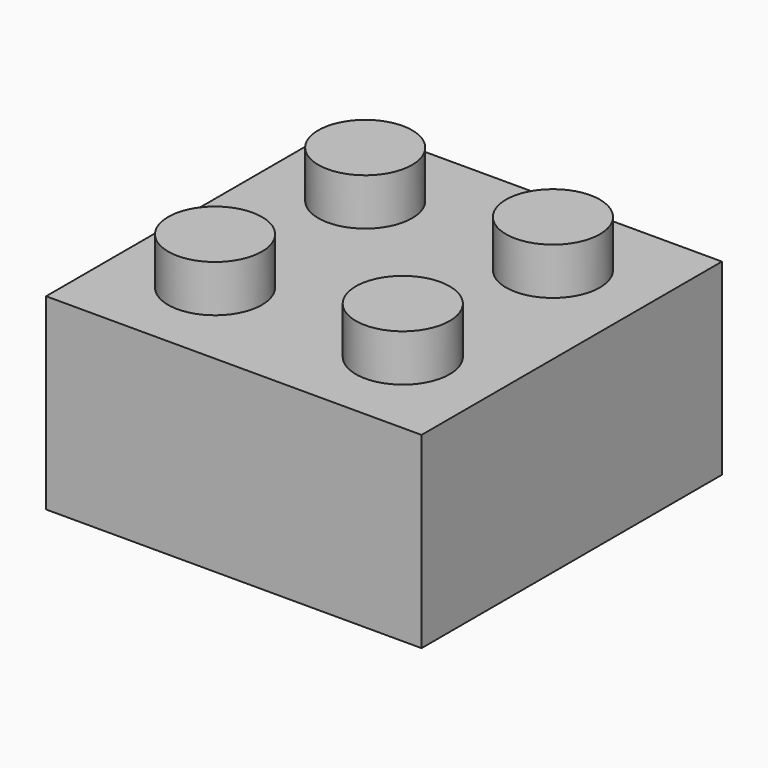
from build123d import *

# Parameters (mm, degrees)
F0_R     = 6.35
F1_DEPTH = 25.4
F2_DEPTH = 31.75


with BuildPart() as f1:
    # F0 (on Top) → F1 (new body)
    with BuildSketch(Plane.XY):
        Polygon((3.144786, 8.942672), (-9.555214, 8.942672), (-9.555214, -3.757328), (-9.555214, -29.157328), (-9.555214, -41.857328), (3.144786, -41.857328), (28.544786, -41.857328), (41.244786, -41.857328), (41.244786, -29.157328), (41.244786, -3.757328), (41.244786, 8.942672), (28.544786, 8.942672), align=None)
        with Locations((3.144786, -29.157328)):
            Circle(F0_R, mode=Mode.SUBTRACT)
        with Locations((28.544786, -29.157328)):
            Circle(F0_R, mode=Mode.SUBTRACT)
        with Locations((3.144786, -3.757328)):
            Circle(F0_R, mode=Mode.SUBTRACT)
        with Locations((28.544786, -3.757328)):
            Circle(F0_R, mode=Mode.SUBTRACT)
    extrude(amount=F1_DEPTH)

    # F0 (on Top) → F2 (join)
    with BuildSketch(Plane.XY):
        with Locations((28.544786, -29.157328)):
            Circle(F0_R)
        with Locations((3.144786, -3.757328)):
            Circle(F0_R)
        with Locations((28.544786, -3.757328)):
            Circle(F0_R)
        with Locations((3.144786, -29.157328)):
            Circle(F0_R)
    extrude(amount=F2_DEPTH)


solid = f1.part
